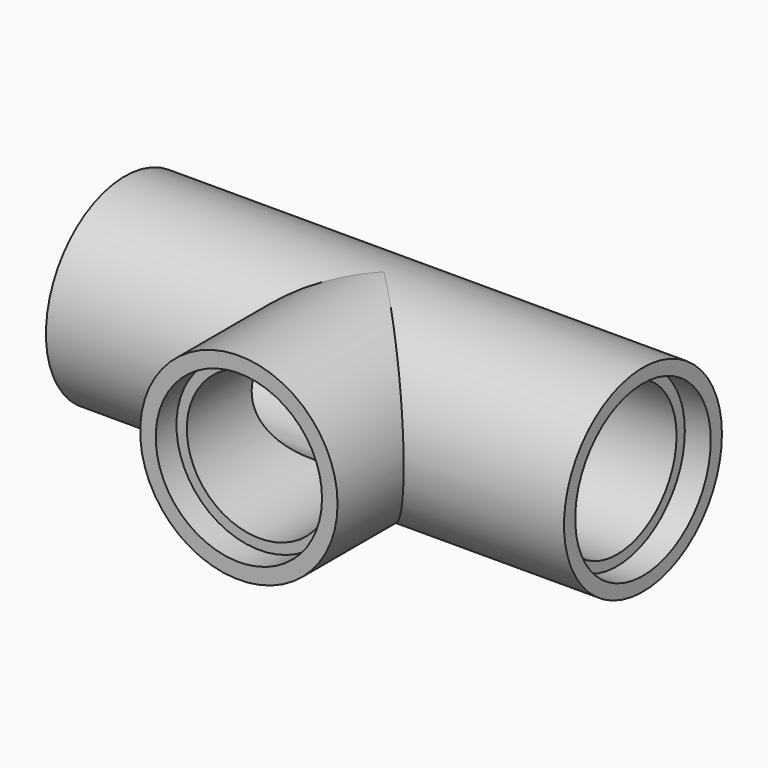
from build123d import *

# Parameters (mm, degrees)
F0_R      = 19.05
F2_DEPTH  = 50
F1_R      = 19.05
F4_DEPTH  = 35
F3_R      = 14.3508300954
F5_DEPTH  = 100.001
F6_R      = 14.05
F7_DEPTH  = 32.078017988
F8_R      = 16.05
F9_DEPTH  = 5
F10_R     = 16.3508300954
F11_DEPTH = 5
F12_R     = 16.3508300954
F13_DEPTH = 5


with BuildPart() as f2:
    # F0 (on Right) → F2 (new body, symmetric)
    with BuildSketch(Plane.YZ):
        Circle(F0_R)
    extrude(amount=F2_DEPTH, both=True)

    # F1 (on Front) → F4 (join)
    with BuildSketch(Plane.XZ):
        Circle(F1_R)
    extrude(amount=F4_DEPTH)

    # F3 (on face) → F5 (cut, through all)
    with BuildSketch(Plane.YZ.offset(50)):
        Circle(F3_R)
    extrude(amount=-F5_DEPTH, mode=Mode.SUBTRACT)

    # F6 (on face) → F7 (cut, through all)
    with BuildSketch(Plane.XZ.offset(35)):
        Circle(F6_R)
    extrude(amount=-F7_DEPTH, mode=Mode.SUBTRACT)

    # F8 (on face) → F9 (cut)
    with BuildSketch(Plane.XZ.offset(35)):
        Circle(F8_R)
    extrude(amount=-F9_DEPTH, mode=Mode.SUBTRACT)

    # F10 (on face) → F11 (cut)
    with BuildSketch(Plane.YZ.offset(50)):
        Circle(F10_R)
    extrude(amount=-F11_DEPTH, mode=Mode.SUBTRACT)

    # F12 (on face) → F13 (cut)
    with BuildSketch(Plane(origin=(-50, 0, 0), x_dir=(0, -1, 0), z_dir=(-1, 0, 0))):
        Circle(F12_R)
    extrude(amount=-F13_DEPTH, mode=Mode.SUBTRACT)


solid = f2.part
